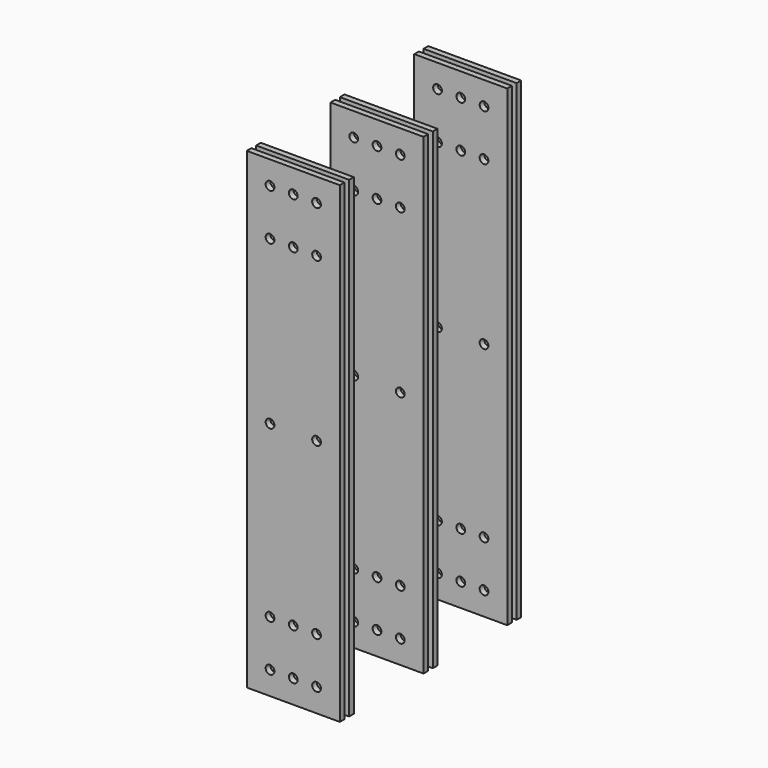
from build123d import *

# Parameters (mm, degrees)
F0_W     = 6.35
F0_H     = 515.9375
F1_DEPTH = 50.8
F2_R     = 4.7625
F3_DEPTH = 247.651


with BuildPart() as f1:
    # F0 (on Right) → F1 (new body, symmetric)
    with BuildSketch(Plane.YZ):
        with Locations((-35.72775, 14.385667)):
            Rectangle(F0_W, F0_H)
        with Locations((-23.02775, 14.385667)):
            Rectangle(F0_W, F0_H)
        with Locations((78.57225, 14.385667)):
            Rectangle(F0_W, F0_H)
        with Locations((91.27225, 14.385667)):
            Rectangle(F0_W, F0_H)
        with Locations((192.87225, 14.385667)):
            Rectangle(F0_W, F0_H)
        with Locations((205.57225, 14.385667)):
            Rectangle(F0_W, F0_H)
    extrude(amount=F1_DEPTH, both=True)

    # F2 (on face) → F3 (cut, through all)
    with BuildSketch(Plane.XZ.offset(38.90275)):
        with Locations((-25.4, 246.954417)):
            Circle(F2_R)
        with Locations((-25.4, -218.183083)):
            Circle(F2_R)
        with Locations((-25.4, 196.154417)):
            Circle(F2_R)
        with Locations((0, 246.954417)):
            Circle(F2_R)
        with Locations((0, 196.154417)):
            Circle(F2_R)
        with Locations((25.4, 246.954417)):
            Circle(F2_R)
        with Locations((25.4, 196.154417)):
            Circle(F2_R)
        with Locations((-25.4, -167.383083)):
            Circle(F2_R)
        with Locations((0, -218.183083)):
            Circle(F2_R)
        with Locations((0, -167.383083)):
            Circle(F2_R)
        with Locations((25.4, -218.183083)):
            Circle(F2_R)
        with Locations((25.4, -167.383083)):
            Circle(F2_R)
        with Locations((25.4, 18.354417)):
            Circle(F2_R)
        with Locations((-25.4, 18.354417)):
            Circle(F2_R)
    extrude(amount=-F3_DEPTH, mode=Mode.SUBTRACT)


solid = f1.part
